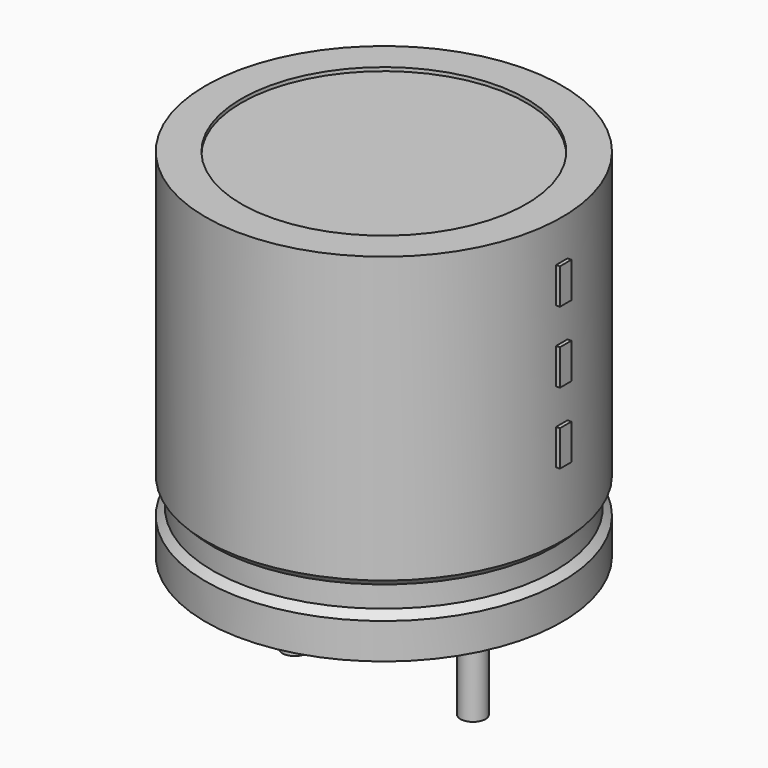
from build123d import *

# Parameters (mm, degrees)
SKETCH002_W  = 4.6
SKETCH002_H  = 9.8
SKETCH003_R  = 0.35
PAD_DEPTH    = 4
SKETCH004_W  = 0.4
SKETCH004_H  = 1
PAD001_DEPTH = 5.1


with BuildPart() as revolution:
    # Sketch → Revolution (revolve)
    with BuildSketch(Plane.XZ):
        Polygon((-2.5, 0.1), (-2.5, 1.1), (-2.3, 1.3), (-2.3, 1.9), (-2.5, 2.1), (-2.5, 10.1), (-1.5, 10.1), (-1.5, 0.1), align=None)
    revolve(axis=Axis((2.5, 0, 7.548619), (0, 0, -1)))


with BuildPart() as revolution001:
    # Sketch002 → Revolution001 (revolve)
    with BuildSketch(Plane.XZ):
        with Locations((0.2, 5.1)):
            Rectangle(SKETCH002_W, SKETCH002_H)
    revolve(axis=Axis((2.5, 0, 4.680116), (0, 0, -1)))


with BuildPart() as pad:
    # Sketch003 → Pad (new body)
    with BuildSketch(Plane.XY.offset(1)):
        Circle(SKETCH003_R)
        with Locations((5, 0)):
            Circle(SKETCH003_R)
    extrude(amount=-PAD_DEPTH)


with BuildPart() as pad001:
    # Sketch004 → Pad001 (new body)
    with BuildSketch(Plane.YZ.offset(2.5)):
        with Locations((0, 4.5)):
            Rectangle(SKETCH004_W, SKETCH004_H)
        with Locations((0, 6.5)):
            Rectangle(SKETCH004_W, SKETCH004_H)
        with Locations((0, 8.5)):
            Rectangle(SKETCH004_W, SKETCH004_H)
    extrude(amount=PAD001_DEPTH)


solid = Compound([revolution.part, revolution001.part, pad.part, pad001.part])
